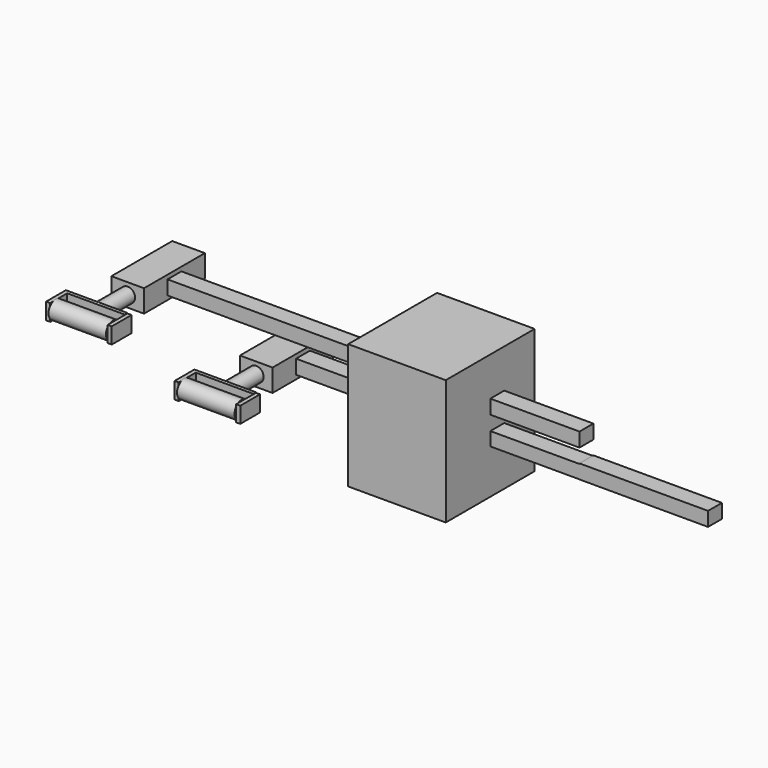
from build123d import *

# Parameters (mm, degrees)
F0_W      = 10.5272727087
F0_H      = 8.5889101028
F1_DEPTH  = 250
F2_W      = 46.1612790823
F2_H      = 13.5926352814
F3_DEPTH  = 19.8
F4_R      = 4.4776089935
F5_DEPTH  = 22
F6_W      = 34.8414889395
F6_H      = 10.0160967559
F7_DEPTH  = 2.1
F8_W      = 15
F8_H      = 9.7125618081
F9_DEPTH  = 2.5
F10_W     = 15
F10_H     = 10.0160967559
F11_DEPTH = 2.5
F12_R     = 5.3976580302
F13_DEPTH = 34.9
F14_W     = 43.2556755841
F14_H     = 54.0643744171
F14_W_2   = 10.52727
F14_H_2   = 8.58891
F15_DEPTH = 135
F19_W     = 67.3968289047
F19_H     = 76.0338176042
F19_W_2   = 10.5272727087
F19_H_2   = 8.2122194581
F19_H_3   = 8.5889101028
F20_DEPTH = 113.3
F21_DEPTH = 54.1


with BuildPart() as f1:
    # F0 (on Right) → F1 (new body)
    with BuildSketch(Plane.YZ):
        Rectangle(F0_W, F0_H)
    extrude(amount=F1_DEPTH)

    # F2 (on face) → F3 (join)
    with BuildSketch(Plane(origin=(0, 0, 0), x_dir=(0, -1, 0), z_dir=(-1, 0, 0))):
        Rectangle(F2_W, F2_H)
    extrude(amount=F3_DEPTH)

    # F4 (on face) → F5 (join)
    with BuildSketch(Plane.XZ.offset(23.0806395411)):
        with Locations((-9.9, 0)):
            Circle(F4_R)
    extrude(amount=F5_DEPTH)

    # F6 (on face) → F7 (join)
    with BuildSketch(Plane.XZ.offset(45.0806395411)):
        with Locations((-9.9, 0)):
            Rectangle(F6_W, F6_H)
    extrude(amount=F7_DEPTH)

    # F8 (on face) → F9 (join)
    with BuildSketch(Plane.YZ.offset(7.5207444698)):
        with Locations((-52.5806395411, -0.1517674739)):
            Rectangle(F8_W, F8_H)
    extrude(amount=F9_DEPTH)

    # F10 (on face) → F11 (join)
    with BuildSketch(Plane(origin=(-27.3207444698, 0, 0), x_dir=(0, -1, 0), z_dir=(-1, 0, 0))):
        with Locations((52.5806395411, 0)):
            Rectangle(F10_W, F10_H)
    extrude(amount=F11_DEPTH)

    # F12 (on face) → F13 (join)
    with BuildSketch(Plane(origin=(7.5207444698, 0, 0), x_dir=(0, -1, 0), z_dir=(-1, 0, 0))):
        with Locations((55.9344217181, 0)):
            Circle(F12_R)
    extrude(amount=F13_DEPTH)

    # F14 (on face) → F15 (cut)
    with BuildSketch(Plane.YZ.offset(250)):
        Rectangle(F14_W, F14_H)
        Rectangle(F14_W_2, F14_H_2, mode=Mode.SUBTRACT)
    extrude(amount=-F15_DEPTH, mode=Mode.SUBTRACT)


with BuildPart() as f16_1:
    # F16: copy of F1
    add(f1.part.moved(Location((-103, 0, 113))))


with BuildPart() as f18_1:
    # F18: copy of F1
    add(f1.part.moved(Location((-78, 0, 17))))


with BuildPart() as f20:
    # F19 (on face) → F20 (new body)
    with BuildSketch(Plane.YZ.offset(172)):
        with Locations((-5.3818924353, 6.8763187155)):
            Rectangle(F19_W, F19_H)
        with Locations((0, -0.1323858742)):
            Rectangle(F19_W_2, F19_H_2, mode=Mode.SUBTRACT)
        with Locations((0, 17)):
            Rectangle(F19_W_2, F19_H_3, mode=Mode.SUBTRACT)
    extrude(amount=-F20_DEPTH)


with BuildPart() as f21_tool:
    # F21 (cut): a face of the model
    f21_faces = [f20.part.faces().sort_by_distance(p)[0] for p in [
        (172, -5.5742891204, 6.8137743456),
    ]]
    extrude(f21_faces, amount=-F21_DEPTH)


with BuildPart() as f1_1:
    add(f1.part)

    # F21: cut by f21_tool
    add(f21_tool.part, mode=Mode.SUBTRACT)


with BuildPart() as f20_1:
    add(f20.part)

    # F21: cut by f21_tool
    add(f21_tool.part, mode=Mode.SUBTRACT)


solid = Compound([f18_1.part, f1_1.part, f20_1.part])
